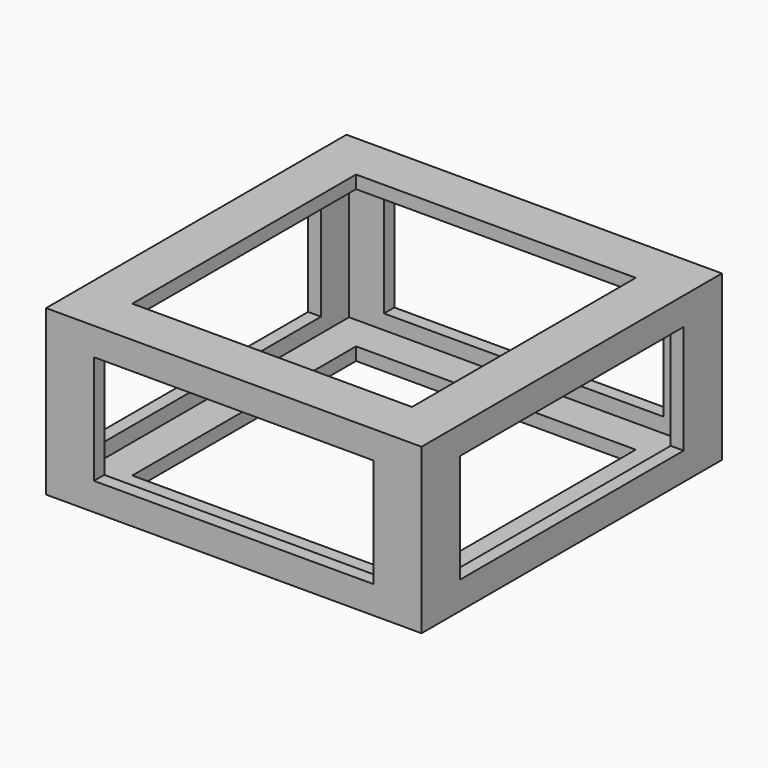
from build123d import *

# Parameters (mm, degrees)
F2_W     = 60.64
F2_H     = 2.8
F2_W_2   = 2.8
F2_H_2   = 60.64
F2_W_3   = 7.58
F2_H_3   = 7.58
F3_DEPTH = 2.8
F4_DEPTH = 6
F5_DEPTH = 35.6
F7_W     = 60.64
F7_H     = 2.8
F7_W_2   = 2.8
F7_H_2   = 60.64
F7_H_3   = 7.58
F7_W_3   = 7.58
F8_DEPTH = 2.8
F9_DEPTH = 6


with BuildPart() as f3:
    # F2 (on Top) → F3 (new body)
    with BuildSketch(Plane.XY):
        with Locations((0, 39.3)):
            Rectangle(F2_W, F2_H)
        Polygon((-40.7, 30.32), (-37.9, 30.32), (-37.9, 37.9), (-30.32, 37.9), (-30.32, 40.7), (-40.7, 40.7), align=None)
        Polygon((37.9, 37.9), (37.9, 30.32), (40.7, 30.32), (40.7, 40.7), (30.32, 40.7), (30.32, 37.9), align=None)
        with Locations((39.3, 0)):
            Rectangle(F2_W_2, F2_H_2)
        Polygon((37.9, -30.32), (37.9, -37.9), (30.32, -37.9), (30.32, -40.7), (40.7, -40.7), (40.7, -30.32), align=None)
        with Locations((0, -39.3)):
            Rectangle(F2_W, F2_H)
        Polygon((-30.32, -40.7), (-30.32, -37.9), (-37.9, -37.9), (-37.9, -30.32), (-40.7, -30.32), (-40.7, -40.7), align=None)
        with Locations((-39.3, 0)):
            Rectangle(F2_W_2, F2_H_2)
        with Locations((34.11, -34.11)):
            Rectangle(F2_W_3, F2_H_3)
        with Locations((34.11, 34.11)):
            Rectangle(F2_W_3, F2_H_3)
        with Locations((-34.11, 34.11)):
            Rectangle(F2_W_3, F2_H_3)
        with Locations((-34.11, 0)):
            Rectangle(F2_W_3, F2_H_2)
        with Locations((34.11, 0)):
            Rectangle(F2_W_3, F2_H_2)
        with Locations((-34.11, -34.11)):
            Rectangle(F2_W_3, F2_H_3)
        with Locations((0, -34.11)):
            Rectangle(F2_W, F2_H_3)
        with Locations((0, 34.11)):
            Rectangle(F2_W, F2_H_3)
    extrude(amount=F3_DEPTH)

    # F2 (on Top) → F4 (join)
    with BuildSketch(Plane.XY):
        with Locations((0, 39.3)):
            Rectangle(F2_W, F2_H)
        Polygon((-40.7, 30.32), (-37.9, 30.32), (-37.9, 37.9), (-30.32, 37.9), (-30.32, 40.7), (-40.7, 40.7), align=None)
        with Locations((-39.3, 0)):
            Rectangle(F2_W_2, F2_H_2)
        Polygon((-30.32, -40.7), (-30.32, -37.9), (-37.9, -37.9), (-37.9, -30.32), (-40.7, -30.32), (-40.7, -40.7), align=None)
        with Locations((0, -39.3)):
            Rectangle(F2_W, F2_H)
        Polygon((37.9, -30.32), (37.9, -37.9), (30.32, -37.9), (30.32, -40.7), (40.7, -40.7), (40.7, -30.32), align=None)
        with Locations((39.3, 0)):
            Rectangle(F2_W_2, F2_H_2)
        Polygon((37.9, 37.9), (37.9, 30.32), (40.7, 30.32), (40.7, 40.7), (30.32, 40.7), (30.32, 37.9), align=None)
    extrude(amount=F4_DEPTH)

    # F2 (on Top) → F5 (join)
    with BuildSketch(Plane.XY):
        Polygon((-40.7, 30.32), (-37.9, 30.32), (-37.9, 37.9), (-30.32, 37.9), (-30.32, 40.7), (-40.7, 40.7), align=None)
        Polygon((37.9, 37.9), (37.9, 30.32), (40.7, 30.32), (40.7, 40.7), (30.32, 40.7), (30.32, 37.9), align=None)
        Polygon((37.9, -30.32), (37.9, -37.9), (30.32, -37.9), (30.32, -40.7), (40.7, -40.7), (40.7, -30.32), align=None)
        Polygon((-30.32, -40.7), (-30.32, -37.9), (-37.9, -37.9), (-37.9, -30.32), (-40.7, -30.32), (-40.7, -40.7), align=None)
    extrude(amount=F5_DEPTH)

    # F7 (on offset) → F8 (join)
    with BuildSketch(Plane.XY.offset(35.6)):
        Polygon((37.9, -30.32), (37.9, -37.9), (30.32, -37.9), (30.32, -40.7), (40.7, -40.7), (40.7, -30.32), align=None)
        with Locations((0, -39.3)):
            Rectangle(F7_W, F7_H)
        with Locations((39.3, 0)):
            Rectangle(F7_W_2, F7_H_2)
        Polygon((-30.32, -40.7), (-30.32, -37.9), (-37.9, -37.9), (-37.9, -30.32), (-40.7, -30.32), (-40.7, -40.7), align=None)
        Polygon((37.9, 37.9), (37.9, 30.32), (40.7, 30.32), (40.7, 40.7), (30.32, 40.7), (30.32, 37.9), align=None)
        with Locations((-39.3, 0)):
            Rectangle(F7_W_2, F7_H_2)
        with Locations((0, 39.3)):
            Rectangle(F7_W, F7_H)
        Polygon((-40.7, 30.32), (-37.9, 30.32), (-37.9, 37.9), (-30.32, 37.9), (-30.32, 40.7), (-40.7, 40.7), align=None)
        with Locations((0, 34.11)):
            Rectangle(F7_W, F7_H_3)
        with Locations((34.11, 34.11)):
            Rectangle(F7_W_3, F7_H_3)
        with Locations((34.11, 0)):
            Rectangle(F7_W_3, F7_H_2)
        with Locations((34.11, -34.11)):
            Rectangle(F7_W_3, F7_H_3)
        with Locations((0, -34.11)):
            Rectangle(F7_W, F7_H_3)
        with Locations((-34.11, -34.11)):
            Rectangle(F7_W_3, F7_H_3)
        with Locations((-34.11, 0)):
            Rectangle(F7_W_3, F7_H_2)
        with Locations((-34.11, 34.11)):
            Rectangle(F7_W_3, F7_H_3)
    extrude(amount=-F8_DEPTH)

    # F7 (on offset) → F9 (join)
    with BuildSketch(Plane.XY.offset(35.6)):
        Polygon((-30.32, -40.7), (-30.32, -37.9), (-37.9, -37.9), (-37.9, -30.32), (-40.7, -30.32), (-40.7, -40.7), align=None)
        with Locations((-39.3, 0)):
            Rectangle(F7_W_2, F7_H_2)
        with Locations((0, -39.3)):
            Rectangle(F7_W, F7_H)
        with Locations((39.3, 0)):
            Rectangle(F7_W_2, F7_H_2)
        with Locations((0, 39.3)):
            Rectangle(F7_W, F7_H)
    extrude(amount=-F9_DEPTH)


solid = f3.part
